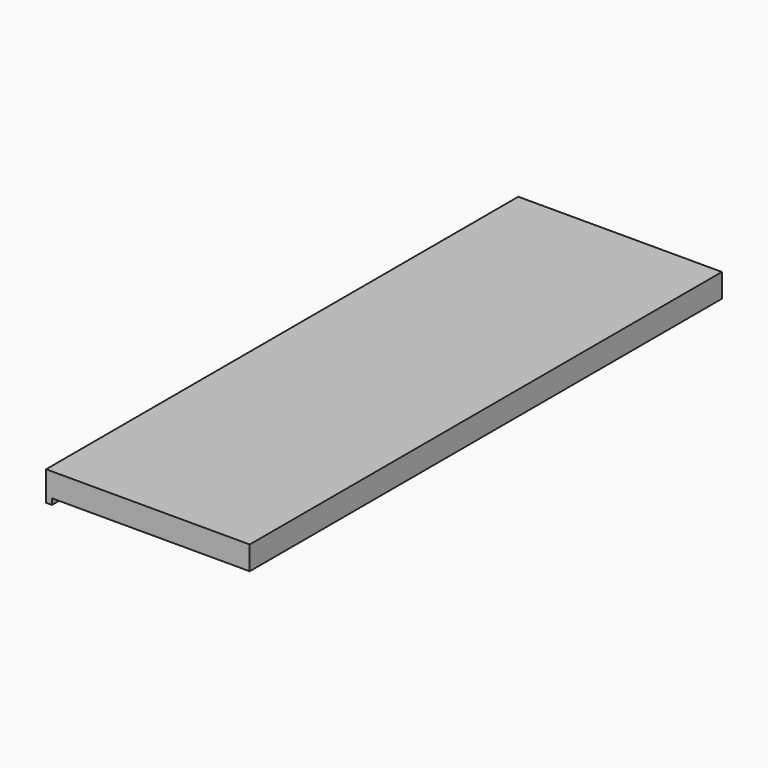
from build123d import *

# Parameters (mm, degrees)
BOX039_W     = 0.2
BOX039_H     = 20
BOX039_DEPTH = 1
BOX040_W     = 6.9
BOX040_H     = 20
BOX040_DEPTH = 0.8


with BuildPart() as cube039:
    # Box039 → Box039 (new body)
    with BuildSketch(Plane(origin=(-26, -2, 28), x_dir=(1, 0, 0), z_dir=(0, 0, 1))):
        with Locations((0.1, 10)):
            Rectangle(BOX039_W, BOX039_H)
    extrude(amount=BOX039_DEPTH)


with BuildPart() as custom_support:
    # Box040 → Box040 (new body)
    with BuildSketch(Plane(origin=(-26, -2, 28.2), x_dir=(1, 0, 0), z_dir=(0, 0, 1))):
        with Locations((3.45, 10)):
            Rectangle(BOX040_W, BOX040_H)
    extrude(amount=BOX040_DEPTH)

    # Fusion001002012025: union Cube039
    add(cube039.part)


solid = custom_support.part
